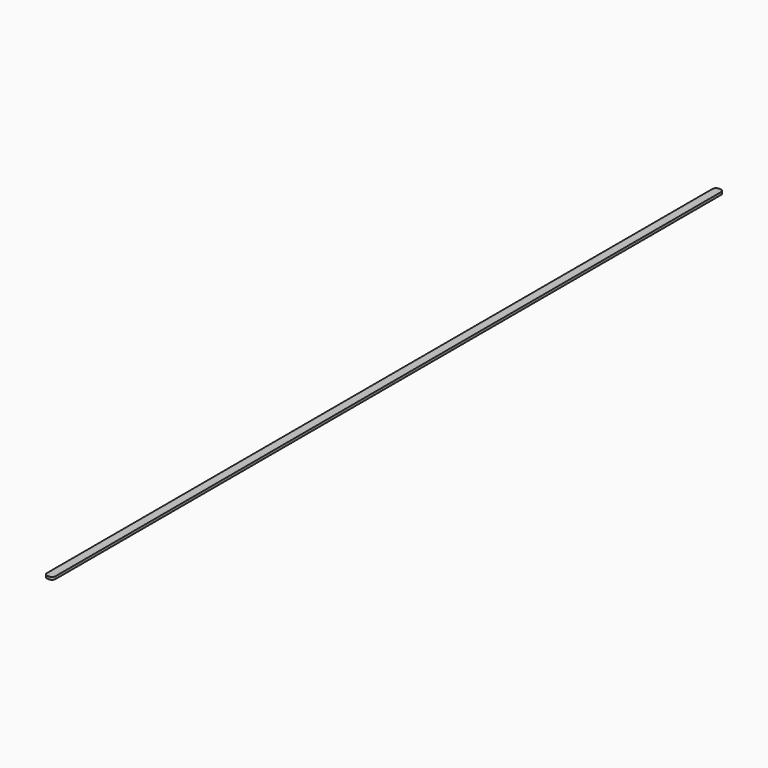
from build123d import *

# Parameters (mm, degrees)
BOX005_W     = 1
BOX005_H     = 98
BOX005_DEPTH = 0.3
FILLET005_R  = 0.45
FILLET006_R  = 0.45
FILLET011_R  = 0.45
FILLET012_R  = 0.45


with BuildPart() as part:
    # Box005 → Box005 (new body)
    with BuildSketch(Plane(origin=(-9, -102, 10.6), x_dir=(1, 0, 0), z_dir=(0, 0, 1))):
        with Locations((0.5, 49)):
            Rectangle(BOX005_W, BOX005_H)
    extrude(amount=BOX005_DEPTH)

    # Fillet005
    fillet005_edges = [part.edges().sort_by_distance(p)[0] for p in [
        (-9, -102, 10.75),
    ]]
    fillet(fillet005_edges, radius=FILLET005_R)

    # Fillet006
    fillet006_edges = [part.edges().sort_by_distance(p)[0] for p in [
        (-8, -102, 10.75),
    ]]
    fillet(fillet006_edges, radius=FILLET006_R)

    # Fillet011
    fillet011_edges = [part.edges().sort_by_distance(p)[0] for p in [
        (-8, -4, 10.75),
    ]]
    fillet(fillet011_edges, radius=FILLET011_R)

    # Fillet012
    fillet012_edges = [part.edges().sort_by_distance(p)[0] for p in [
        (-9, -4, 10.75),
    ]]
    fillet(fillet012_edges, radius=FILLET012_R)


solid = part.part
